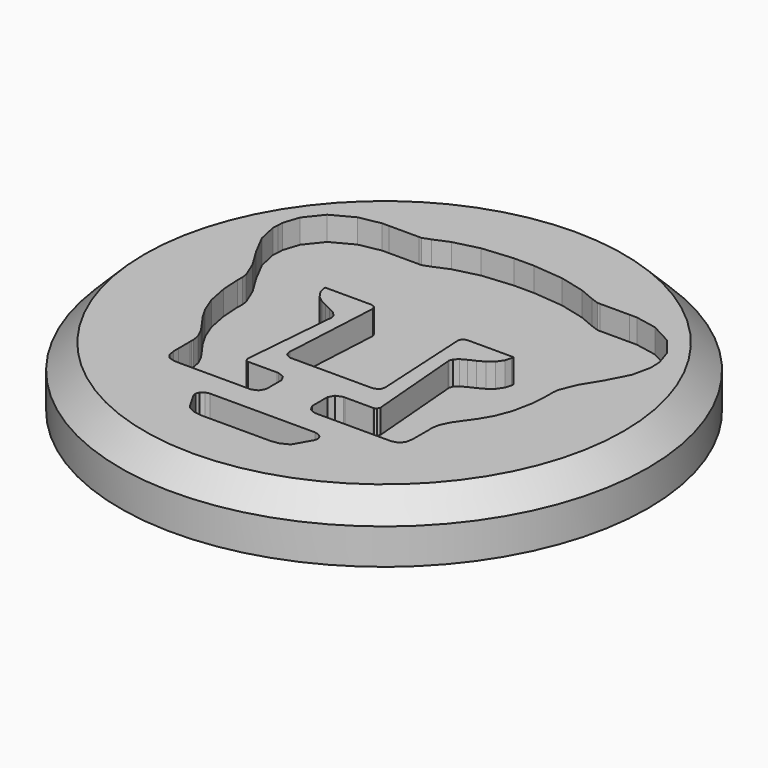
from build123d import *

# Parameters (mm, degrees)
F0_R     = 11
F1_DEPTH = 2.5
F3_DEPTH = 1
F4_SIZE  = 1.016
F5_R     = 8.25
F6_DEPTH = 0.5


with BuildPart() as f1:
    # F0 (on Top) → F1 (new body)
    with BuildSketch(Plane.XY):
        Circle(F0_R)
    extrude(amount=F1_DEPTH)

    # F2 (on face) → F3 (cut)
    with BuildSketch(Plane.XY.offset(2.5)):
        Polygon((-1.708768, -2.738023), (1.709315, -2.738023), (1.765715, -2.730263), (1.942346, -2.632438), (2.000932, -2.453948), (1.998746, -2.405964), (1.780361, 1.612295), (1.778175, 1.651316), (1.84627, 1.782478), (1.99033, 1.835161), (2.038532, 1.835161), (3.923003, 1.835708), (3.919396, 1.748048), (3.844087, 1.485942), (3.665597, 1.225695), (3.421308, 1.032886), (3.146633, 0.884673), (2.876329, 0.758867), (2.645156, 0.63317), (2.48798, 0.48441), (2.43639, 0.337837), (2.440434, 0.290509), (2.766044, -3.632876), (2.767793, -3.656595), (2.719154, -3.757917), (2.626138, -3.811366), (2.595315, -3.811366), (1.421086, -3.81071), (1.347636, -3.810164), (1.078316, -3.917498), (0.956226, -4.145829), (0.956226, -4.222286), (0.956226, -4.871625), (0.956226, -4.947535), (1.086623, -5.177025), (1.330475, -5.277834), (1.411686, -5.277834), (4.284136, -5.276632), (4.351138, -5.276632), (4.553346, -5.267145), (4.772714, -5.201323), (4.920381, -5.023435), (4.974923, -4.76369), (4.974923, -4.677713), (4.974923, -4.460083), (4.977327, -3.881319), (4.974923, -3.808961), (4.970769, -3.706436), (5.029573, -3.396238), (5.202052, -3.035652), (5.452352, -2.678126), (5.739816, -2.27666), (6.026296, -1.783272), (6.271132, -1.150525), (6.434975, -0.33098), (6.485363, 0.461238), (6.478914, 0.72389), (6.511377, 0.956922), (6.786599, 1.630111), (7.273975, 2.429981), (7.711073, 3.274446), (7.8806, 4.055298), (7.868248, 4.312157), (7.85699, 4.532728), (7.643961, 5.185696), (7.080183, 5.888834), (6.195932, 6.359159), (5.306435, 6.529998), (5.010008, 6.529998), (3.774134, 6.530544), (3.665597, 6.530544), (3.340097, 6.648481), (2.725056, 6.907635), (1.690952, 7.167446), (0.422506, 7.284945), (0.000273, 7.284945), (-0.423052, 7.284945), (-1.691608, 7.167446), (-2.725712, 6.908291), (-3.340643, 6.649137), (-3.665707, 6.530544), (-3.773587, 6.530544), (-5.010008, 6.529998), (-5.30709, 6.529998), (-6.196588, 6.359159), (-7.081342, 5.888834), (-7.645273, 5.185696), (-7.857559, 4.532728), (-7.868238, 4.312157), (-7.881288, 4.055298), (-7.711105, 3.274446), (-7.274062, 2.429981), (-6.78661, 1.630111), (-6.51083, 0.956922), (-6.478258, 0.72389), (-6.485363, 0.460692), (-6.435521, -0.33098), (-6.271241, -1.151181), (-6.026405, -1.783819), (-5.739925, -2.277207), (-5.452352, -2.678126), (-5.202707, -3.035652), (-5.03012, -3.396238), (-4.971425, -3.706436), (-4.975032, -3.808961), (-4.977983, -3.881319), (-4.975032, -4.478467), (-4.975032, -4.677713), (-4.975032, -4.76369), (-4.921037, -5.023435), (-4.77337, -5.201323), (-4.554002, -5.267145), (-4.351138, -5.276632), (-4.283589, -5.276632), (-1.411031, -5.277834), (-1.330475, -5.277834), (-1.086623, -5.177025), (-0.956226, -4.947535), (-0.956226, -4.871625), (-0.956226, -4.222286), (-0.956226, -4.145829), (-1.079081, -3.917498), (-1.347636, -3.810164), (-1.420649, -3.81071), (-2.594659, -3.811366), (-2.626138, -3.811366), (-2.719263, -3.757917), (-2.767902, -3.656595), (-2.765498, -3.632876), (-2.439888, 0.290509), (-2.43639, 0.337837), (-2.48798, 0.48441), (-2.644501, 0.63317), (-2.875783, 0.758867), (-3.146742, 0.884673), (-3.421308, 1.032886), (-3.666253, 1.225695), (-3.844743, 1.485942), (-3.919505, 1.748048), (-3.923003, 1.835708), (-2.038422, 1.835161), (-1.990986, 1.835161), (-1.846926, 1.782478), (-1.778175, 1.651316), (-1.779924, 1.612295), (-1.99809, -2.405964), (-2.001151, -2.453948), (-1.942346, -2.632438), (-1.765715, -2.730263), align=None)
        Polygon((-1.357801, -7.715055), (1.358238, -7.715055), (1.462621, -7.715055), (1.776317, -7.664656), (2.092964, -7.50454), (2.138106, -7.449386), (2.511043, -6.796505), (2.530062, -6.761518), (2.551266, -6.635799), (2.500441, -6.488143), (2.361518, -6.379628), (2.194396, -6.337515), (2.139308, -6.337515), (-2.138652, -6.337515), (-2.194943, -6.337515), (-2.362283, -6.379628), (-2.500441, -6.488143), (-2.551375, -6.635799), (-2.530608, -6.761518), (-2.511043, -6.796505), (-2.13745, -7.449386), (-2.092964, -7.50454), (-1.776863, -7.664656), (-1.462621, -7.715055), align=None)
    extrude(amount=-F3_DEPTH, mode=Mode.SUBTRACT)

    # F4
    f4_edges = [f1.edges().sort_by_distance(p)[0] for p in [
        (-11, 0, 2.5),
    ]]
    chamfer(f4_edges, length=F4_SIZE)

    # F5 (on face) → F6 (cut)
    with BuildSketch(Plane(origin=(0, 0, 0), x_dir=(1, 0, 0), z_dir=(0, 0, -1))):
        Circle(F5_R)
    extrude(amount=-F6_DEPTH, mode=Mode.SUBTRACT)


solid = f1.part
